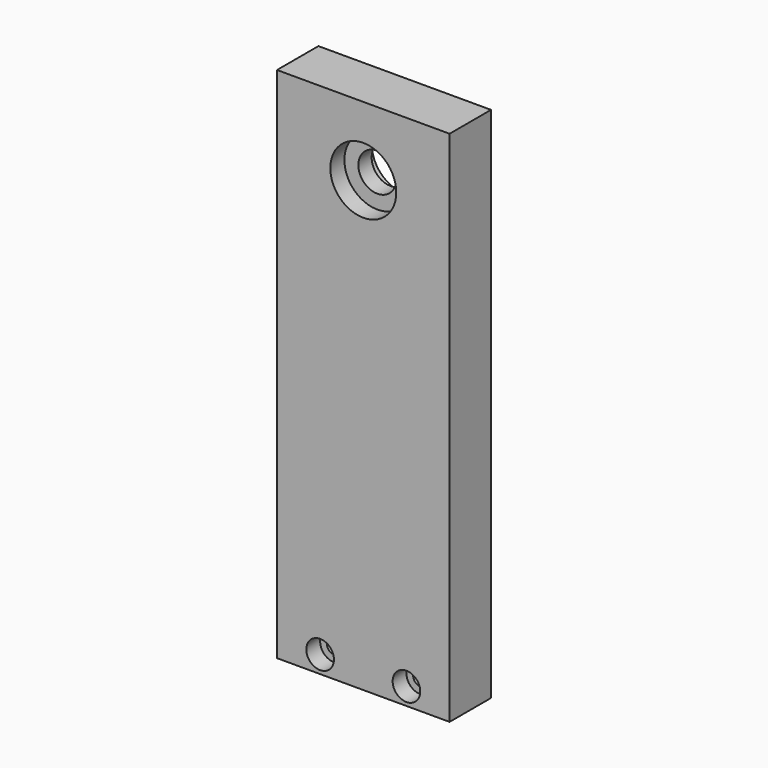
from build123d import *

# Parameters (mm, degrees)
F0_W     = 15
F0_H     = 150
F1_DEPTH = 50
F2_R     = 5.5
F2_R_2   = 2.05
F3_DEPTH = 15
F2_R_3   = 4
F4_DEPTH = 5
F2_R_4   = 9.55
F5_DEPTH = 5.1
F6_R     = 9.55
F6_R_2   = 5.5
F7_DEPTH = 5.1


with BuildPart() as f1:
    # F0 (on Right) → F1 (new body)
    with BuildSketch(Plane.YZ):
        with Locations((-7.5, 75)):
            Rectangle(F0_W, F0_H)
    extrude(amount=F1_DEPTH)

    # F2 (on face) → F3 (cut, through all)
    with BuildSketch(Plane.XZ.offset(15)):
        with Locations((25, 130)):
            Circle(F2_R)
        with Locations((12.5, 5)):
            Circle(F2_R_2)
        with Locations((37.5, 5)):
            Circle(F2_R_2)
    extrude(amount=-F3_DEPTH, mode=Mode.SUBTRACT)

    # F2 (on face) → F4 (cut)
    with BuildSketch(Plane.XZ.offset(15)):
        with Locations((12.5, 5)):
            Circle(F2_R_3)
        with Locations((12.5, 5)):
            Circle(F2_R_2, mode=Mode.SUBTRACT)
        with Locations((37.5, 5)):
            Circle(F2_R_3)
        with Locations((37.5, 5)):
            Circle(F2_R_2, mode=Mode.SUBTRACT)
    extrude(amount=-F4_DEPTH, mode=Mode.SUBTRACT)

    # F2 (on face) → F5 (cut)
    with BuildSketch(Plane.XZ.offset(15)):
        with Locations((25, 130)):
            Circle(F2_R_4)
        with Locations((25, 130)):
            Circle(F2_R, mode=Mode.SUBTRACT)
    extrude(amount=-F5_DEPTH, mode=Mode.SUBTRACT)

    # F6 (on face) → F7 (cut)
    with BuildSketch(Plane(origin=(0, 0, 0), x_dir=(-1, 0, 0), z_dir=(0, 1, 0))):
        with Locations((-25, 130)):
            Circle(F6_R)
        with Locations((-25, 130)):
            Circle(F6_R_2, mode=Mode.SUBTRACT)
    extrude(amount=-F7_DEPTH, mode=Mode.SUBTRACT)


solid = f1.part
